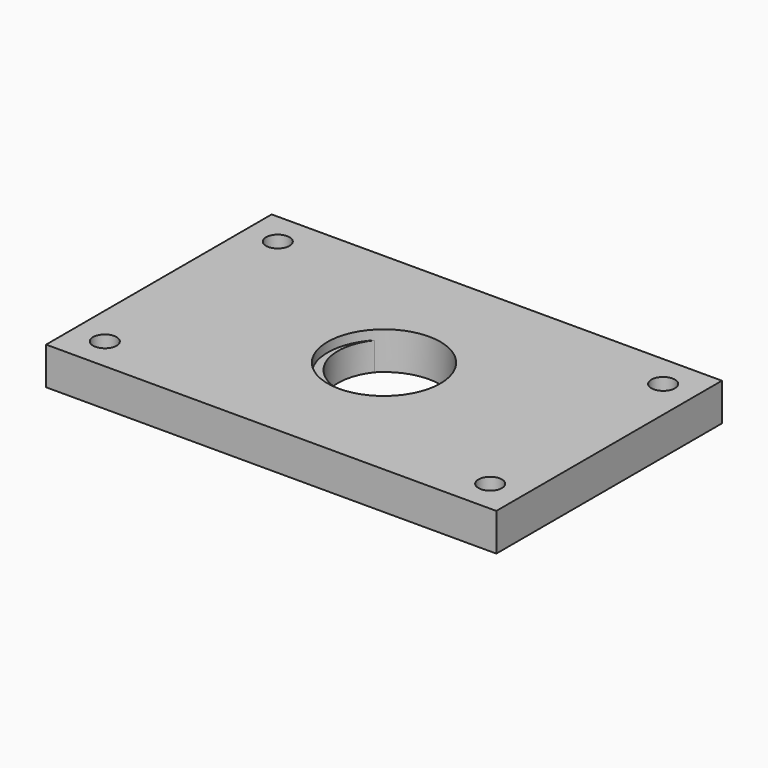
from build123d import *

# Parameters (mm, degrees)
F0_W     = 28.5
F0_H     = 28.5
F0_R     = 1.25
F0_R_2   = 5.5
F1_DEPTH = 3
F2_W     = 47.9
F2_H     = 30
F2_R     = 1.25
F2_R_2   = 6
F3_DEPTH = 4


with BuildPart() as f1:
    # F0 (on Top) → F1 (new body)
    with BuildSketch(Plane.XY):
        Rectangle(F0_W, F0_H)
        with Locations((-12.25, -12.25)):
            Circle(F0_R, mode=Mode.SUBTRACT)
        with Locations((12.25, -12.25)):
            Circle(F0_R, mode=Mode.SUBTRACT)
        with Locations((-12.25, 12.25)):
            Circle(F0_R, mode=Mode.SUBTRACT)
        Circle(F0_R_2, mode=Mode.SUBTRACT)
        with Locations((12.25, 12.25)):
            Circle(F0_R, mode=Mode.SUBTRACT)
    extrude(amount=F1_DEPTH)


with BuildPart() as f3:
    # F2 (on Top) → F3 (new body)
    with BuildSketch(Plane.XY):
        with Locations((0, -0.75)):
            Rectangle(F2_W, F2_H)
        with Locations((-20.5, -12.25)):
            Circle(F2_R, mode=Mode.SUBTRACT)
        with Locations((20.5, -12.25)):
            Circle(F2_R, mode=Mode.SUBTRACT)
        with Locations((-20.5, 10.75)):
            Circle(F2_R, mode=Mode.SUBTRACT)
        with Locations((0, -0.75)):
            Circle(F2_R_2, mode=Mode.SUBTRACT)
        with Locations((20.5, 10.75)):
            Circle(F2_R, mode=Mode.SUBTRACT)
    extrude(amount=F3_DEPTH)


solid = Compound([f1.part, f3.part])
